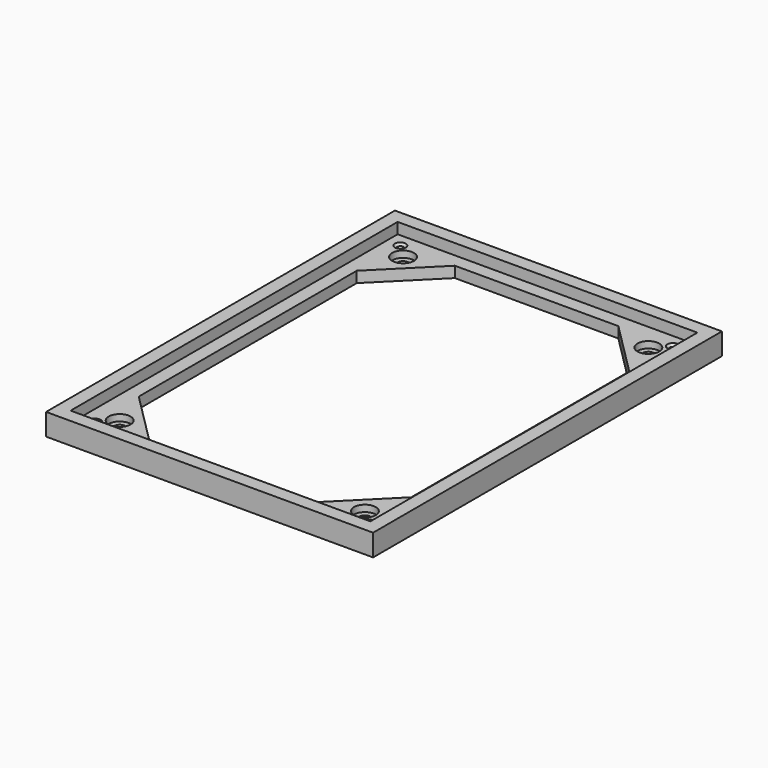
from build123d import *

# Parameters (mm, degrees)
F0_W           = 150
F0_H           = 200
F0_W_2         = 137.5
F0_H_2         = 187.5
F1_DEPTH       = 10
F0_R           = 5
F2_DEPTH       = 5
F0_R_2         = 2.5
F3_DEPTH       = 2
F5_D           = 3
F5_CSINK_D     = 5
F5_CSINK_ANGLE = 90


with BuildPart() as f1:
    # F0 (on Top) → F1 (new body)
    with BuildSketch(Plane.XY):
        with Locations((-0.025054, 0.008351)):
            Rectangle(F0_W, F0_H)
        with Locations((-0.025054, 0.008351)):
            Rectangle(F0_W_2, F0_H_2, mode=Mode.SUBTRACT)
    extrude(amount=F1_DEPTH)

    # F0 (on Top) → F2 (join)
    with BuildSketch(Plane.XY):
        with Locations((-0.025054, 0.008351)):
            Rectangle(F0_W_2, F0_H_2)
        Polygon((-62.525054, 62.508351), (-62.525054, 87.508351), (-37.525054, 87.508351), (37.474946, 87.508351), (62.474946, 87.508351), (62.474946, 62.508351), (62.474946, -62.491649), (62.474946, -87.491649), (37.474946, -87.491649), (-37.525054, -87.491649), (-62.525054, -87.491649), (-62.525054, -62.491649), align=None, mode=Mode.SUBTRACT)
        Polygon((-37.525054, 87.508351), (-62.525054, 87.508351), (-62.525054, 62.508351), align=None)
        with Locations((-56.275054, 81.258351)):
            Circle(F0_R, mode=Mode.SUBTRACT)
        Polygon((62.474946, 87.508351), (37.474946, 87.508351), (62.474946, 62.508351), align=None)
        with Locations((56.224946, 81.258351)):
            Circle(F0_R, mode=Mode.SUBTRACT)
        Polygon((62.474946, -87.491649), (62.474946, -62.491649), (37.474946, -87.491649), align=None)
        with Locations((56.224946, -81.241649)):
            Circle(F0_R, mode=Mode.SUBTRACT)
        Polygon((-37.525054, -87.491649), (-62.525054, -62.491649), (-62.525054, -87.491649), align=None)
        with Locations((-56.275054, -81.241649)):
            Circle(F0_R, mode=Mode.SUBTRACT)
    extrude(amount=F2_DEPTH)

    # F0 (on Top) → F3 (join)
    with BuildSketch(Plane.XY):
        with Locations((-56.275054, 81.258351)):
            Circle(F0_R)
        with Locations((-56.275054, 81.258351)):
            Circle(F0_R_2, mode=Mode.SUBTRACT)
        with Locations((56.224946, 81.258351)):
            Circle(F0_R)
        with Locations((56.224946, 81.258351)):
            Circle(F0_R_2, mode=Mode.SUBTRACT)
        with Locations((56.224946, -81.241649)):
            Circle(F0_R)
        with Locations((56.224946, -81.241649)):
            Circle(F0_R_2, mode=Mode.SUBTRACT)
        with Locations((-56.275054, -81.241649)):
            Circle(F0_R)
        with Locations((-56.275054, -81.241649)):
            Circle(F0_R_2, mode=Mode.SUBTRACT)
    extrude(amount=F3_DEPTH)

    # F5 (through all)
    with Locations(Plane.XY.offset(5)):
        with Locations((-62.525054, 87.508351), (62.474946, 87.508351), (62.474946, -87.491649), (-62.525054, -87.491649)):
            CounterSinkHole(F5_D / 2, F5_CSINK_D / 2, counter_sink_angle=F5_CSINK_ANGLE)


solid = f1.part
